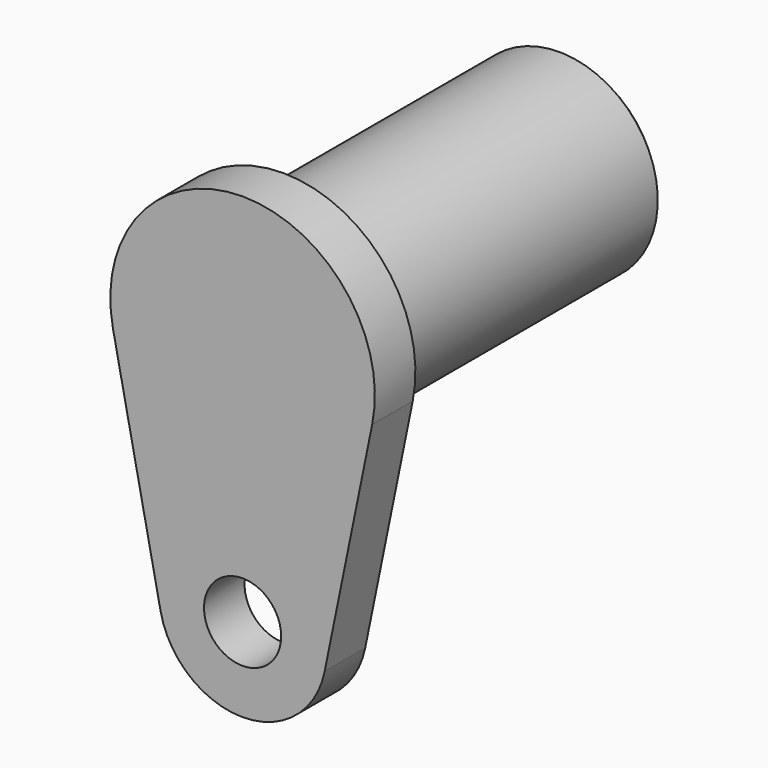
from build123d import *

# Parameters (mm, degrees)
F0_R     = 3.5
F1_DEPTH = 4.6
F2_R     = 8.95
F3_DEPTH = 31.8
F4_SIZE  = 0.5


with BuildPart() as f1:
    # F0 (on Front) → F1 (new body)
    with BuildSketch(Plane.XZ):
        with BuildLine():
            Line((7.446449, -23.52), (11.757551, -2.4))
            ThreePointArc((11.757551, -2.4), (0, 12), (-11.757551, -2.4))
            Line((-11.757551, -2.4), (-7.446449, -23.52))
            ThreePointArc((-7.446449, -23.52), (0, -29.6), (7.446449, -23.52))
        make_face()
        with Locations((0, -22)):
            Circle(F0_R, mode=Mode.SUBTRACT)
    extrude(amount=F1_DEPTH)

    # F2 (on face) → F3 (join)
    with BuildSketch(Plane(origin=(0, 0, 0), x_dir=(-1, 0, 0), z_dir=(0, 1, 0))):
        Circle(F2_R)
    extrude(amount=F3_DEPTH)

    # F4
    f4_edges = [f1.edges().sort_by_distance(p)[0] for p in [
        (8.95, 31.8, 0),
    ]]
    chamfer(f4_edges, length=F4_SIZE)


solid = f1.part
